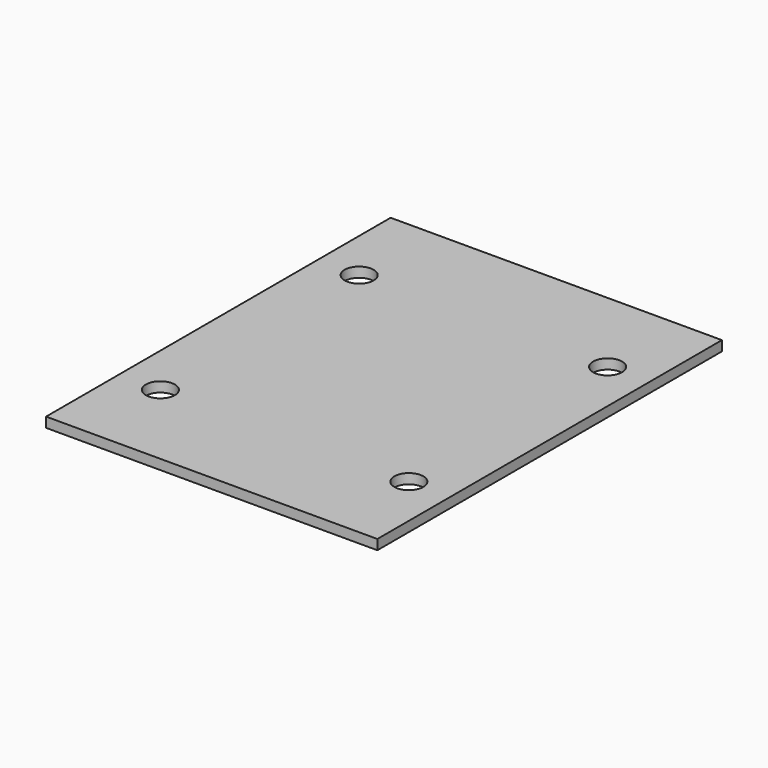
from build123d import *

# Parameters (mm, degrees)
F0_W     = 40
F0_H     = 52
F1_DEPTH = 0.6
F2_R     = 1.75
F3_DEPTH = 1.2


with BuildPart() as f1:
    # F0 (on Top) → F1 (new body, symmetric)
    with BuildSketch(Plane.XY):
        Rectangle(F0_W, F0_H)
    extrude(amount=F1_DEPTH, both=True)

    # F2 (on face) → F3 (cut, through all)
    with BuildSketch(Plane.XY.offset(0.6)):
        with Locations((-15, 15)):
            Circle(F2_R)
        with Locations((15, 15)):
            Circle(F2_R)
        with Locations((-15, -15)):
            Circle(F2_R)
        with Locations((15, -15)):
            Circle(F2_R)
    extrude(amount=-F3_DEPTH, mode=Mode.SUBTRACT)


solid = f1.part
